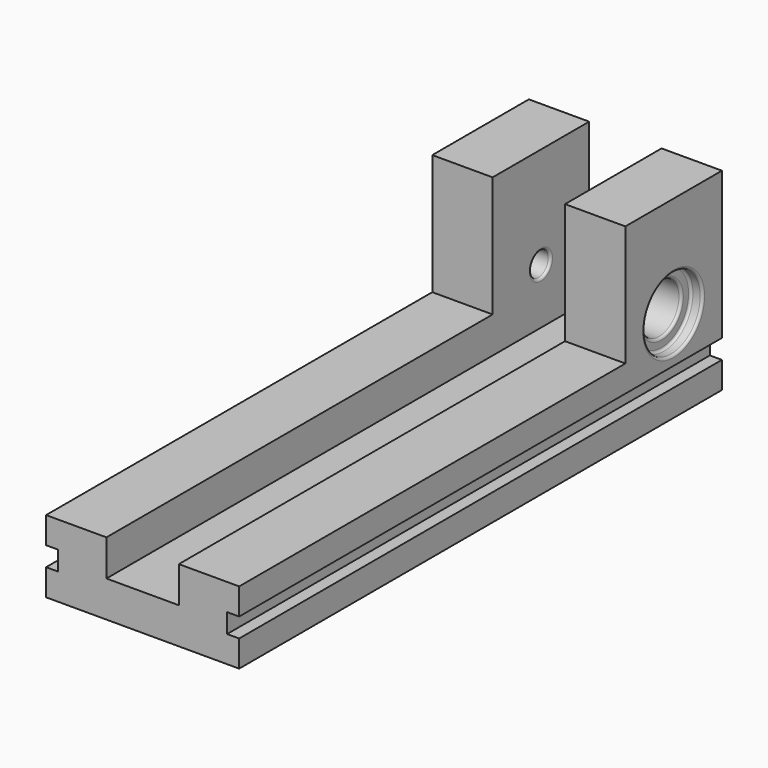
from build123d import *

# Parameters (mm, degrees)
F1_DEPTH = 250
F2_W     = 25
F2_H     = 50
F3_DEPTH = 50
F4_R     = 5
F5_DEPTH = 100
F4_R_2   = 10.25
F6_DEPTH = 25.8
F4_R_3   = 15
F7_DEPTH = 5
F8_R     = 1


with BuildPart() as f1:
    # F0 (on Front) → F1 (new body)
    with BuildSketch(Plane.XZ):
        Polygon((-40, -15), (40, -15), (40, -4), (35, -4), (35, 4), (40, 4), (40, 15), (15, 15), (15, 0), (-15, 0), (-15, 15), (-40, 15), (-40, 4), (-35, 4), (-35, -4), (-40, -4), align=None)
    extrude(amount=F1_DEPTH)

    # F2 (on face) → F3 (join)
    with BuildSketch(Plane.XY.offset(15)):
        with Locations((-27.5, -25)):
            Rectangle(F2_W, F2_H)
        with Locations((27.5, -25)):
            Rectangle(F2_W, F2_H)
    extrude(amount=F3_DEPTH)

    # F4 (on face) → F5 (cut)
    with BuildSketch(Plane.YZ.offset(40)):
        with Locations((-25, 23)):
            Circle(F4_R)
    extrude(amount=-F5_DEPTH, mode=Mode.SUBTRACT)

    # F4 (on face) → F6 (cut)
    with BuildSketch(Plane.YZ.offset(40)):
        with Locations((-25, 23)):
            Circle(F4_R_2)
        with Locations((-25, 23)):
            Circle(F4_R, mode=Mode.SUBTRACT)
    extrude(amount=-F6_DEPTH, mode=Mode.SUBTRACT)

    # F4 (on face) → F7 (cut)
    with BuildSketch(Plane.YZ.offset(40)):
        with Locations((-25, 23)):
            Circle(F4_R_3)
        with Locations((-25, 23)):
            Circle(F4_R_2, mode=Mode.SUBTRACT)
    extrude(amount=-F7_DEPTH, mode=Mode.SUBTRACT)

    # F8
    f8_edges = [f1.edges().sort_by_distance(p)[0] for p in [
        (35, -40, 23),
        (35, -35.25, 23),
        (15, -35.25, 23),
        (-15, -30, 23),
        (-27.5, -20, 23),
        (-40, -30, 23),
        (40, -40, 23),
    ]]
    fillet(f8_edges, radius=F8_R)


solid = f1.part
